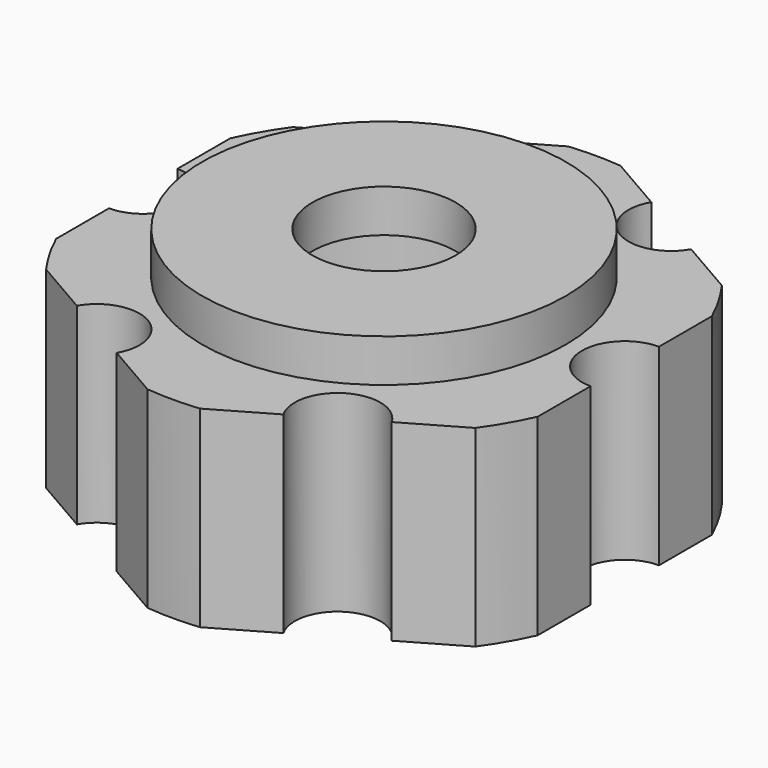
from build123d import *

# Parameters (mm, degrees)
F0_R     = 8.5
F1_DEPTH = 9
F0_R_2   = 3.35
F2_DEPTH = 11
F3_R     = 7.5
F3_R_2   = 3.35
F4_DEPTH = 9


with BuildPart() as f1:
    # F0 (on Top) → F1 (new body)
    with BuildSketch(Plane.XY):
        with BuildLine():
            Line((-11.25833, -2), (-11.25833, -5.087327))
            ThreePointArc((-11.25833, -5.087327), (-10.699214, -6.177194), (-10.03492, -7.206336))
            Line((-10.03492, -7.206336), (-7.361216, -8.75))
            ThreePointArc((-7.361216, -8.75), (-5.111527, -7.818148), (-3.629165, -9.75))
            ThreePointArc((-3.629165, -9.75), (-3.697313, -10.267638), (-3.897114, -10.75))
            Line((-3.897114, -10.75), (-1.22341, -12.293664))
            ThreePointArc((-1.22341, -12.293664), (0, -12.354388), (1.22341, -12.293664))
            Line((1.22341, -12.293664), (3.897114, -10.75))
            ThreePointArc((3.897114, -10.75), (4.629165, -8.017949), (7.361216, -8.75))
            Line((7.361216, -8.75), (10.03492, -7.206336))
            ThreePointArc((10.03492, -7.206336), (10.699214, -6.177194), (11.25833, -5.087327))
            Line((11.25833, -5.087327), (11.25833, -2))
            ThreePointArc((11.25833, -2), (9.25833, 0), (11.25833, 2))
            Line((11.25833, 2), (11.25833, 5.087327))
            ThreePointArc((11.25833, 5.087327), (10.699214, 6.177194), (10.03492, 7.206336))
            Line((10.03492, 7.206336), (7.361216, 8.75))
            ThreePointArc((7.361216, 8.75), (4.629165, 8.017949), (3.897114, 10.75))
            Line((3.897114, 10.75), (1.22341, 12.293664))
            ThreePointArc((1.22341, 12.293664), (0, 12.354388), (-1.22341, 12.293664))
            Line((-1.22341, 12.293664), (-3.897114, 10.75))
            ThreePointArc((-3.897114, 10.75), (-3.697313, 10.267638), (-3.629165, 9.75))
            ThreePointArc((-3.629165, 9.75), (-5.111527, 7.818148), (-7.361216, 8.75))
            Line((-7.361216, 8.75), (-10.03492, 7.206336))
            ThreePointArc((-10.03492, 7.206336), (-10.699214, 6.177194), (-11.25833, 5.087327))
            Line((-11.25833, 5.087327), (-11.25833, 2))
            ThreePointArc((-11.25833, 2), (-9.844117, 1.414214), (-9.25833, 0))
            ThreePointArc((-9.25833, 0), (-9.844117, -1.414214), (-11.25833, -2))
        make_face()
        Circle(F0_R, mode=Mode.SUBTRACT)
    extrude(amount=F1_DEPTH)

    # F0 (on Top) → F2 (join)
    with BuildSketch(Plane.XY):
        Circle(F0_R)
        Circle(F0_R_2, mode=Mode.SUBTRACT)
    extrude(amount=F2_DEPTH)

    # F3 (on face) → F4 (cut)
    with BuildSketch(Plane(origin=(0, 0, 0), x_dir=(1, 0, 0), z_dir=(0, 0, -1))):
        Circle(F3_R)
        Circle(F3_R_2, mode=Mode.SUBTRACT)
    extrude(amount=-F4_DEPTH, mode=Mode.SUBTRACT)


solid = f1.part
